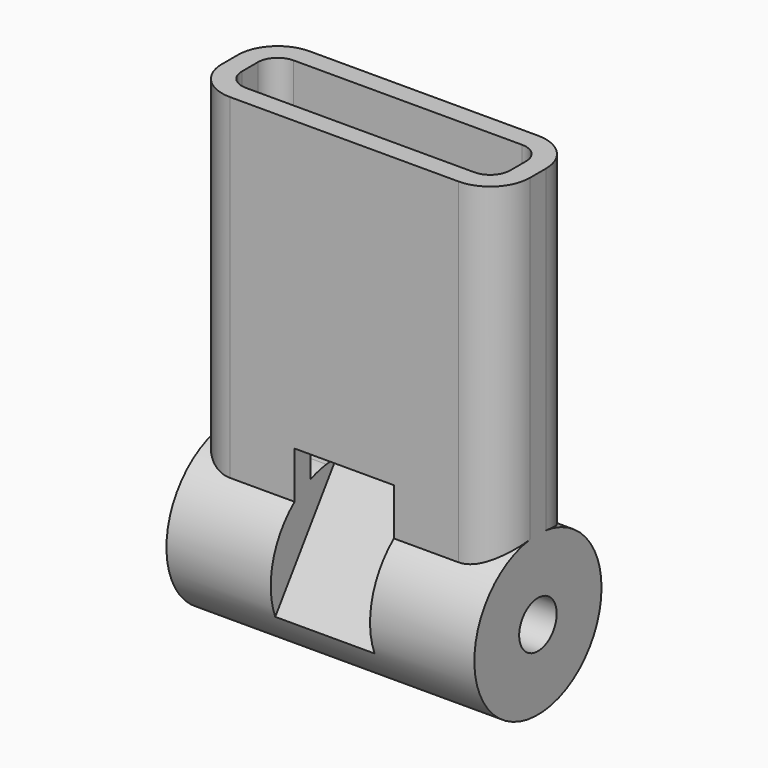
from build123d import *

# Parameters (mm, degrees)
F1_DEPTH = 20
F3_DEPTH = 15.5
F5_W     = 5
F5_H     = 3
F6_DEPTH = 4.5
F7_R     = 1.1815986622
F8_DEPTH = 25


with BuildPart() as f1:
    # F0 (on Top) → F1 (new body)
    with BuildSketch(Plane.XY):
        with BuildLine():
            Line((5.75, 2.5), (-5.75, 2.5))
            ThreePointArc((-5.75, 2.5), (-7.1642135624, 1.9142135624), (-7.75, 0.5))
            Line((-7.75, 0.5), (-7.75, -0.5))
            ThreePointArc((-7.75, -0.5), (-7.1642135624, -1.9142135624), (-5.75, -2.5))
            Line((-5.75, -2.5), (5.75, -2.5))
            ThreePointArc((5.75, -2.5), (7.1642135624, -1.9142135624), (7.75, -0.5))
            Line((7.75, -0.5), (7.75, 0.5))
            ThreePointArc((7.75, 0.5), (7.1642135624, 1.9142135624), (5.75, 2.5))
        make_face()
        with BuildLine():
            ThreePointArc((-6.75, 0.5), (-6.4571067812, 1.2071067812), (-5.75, 1.5))
            Line((-5.75, 1.5), (5.75, 1.5))
            ThreePointArc((5.75, 1.5), (6.4571067812, 1.2071067812), (6.75, 0.5))
            Line((6.75, 0.5), (6.75, -0.5))
            ThreePointArc((6.75, -0.5), (6.4571067812, -1.2071067812), (5.75, -1.5))
            Line((5.75, -1.5), (-5.75, -1.5))
            ThreePointArc((-5.75, -1.5), (-6.4571067812, -1.2071067812), (-6.75, -0.5))
            Line((-6.75, -0.5), (-6.75, 0.5))
        make_face(mode=Mode.SUBTRACT)
    extrude(amount=F1_DEPTH)

    # F2 (on face) → F3 (join)
    with BuildSketch(Plane.YZ.offset(7.75)):
        with BuildLine():
            ThreePointArc((-0.5, 3.9686269666), (-2.6457513111, -3), (4, 0))
            ThreePointArc((4, 0), (3, 2.6457513111), (0.5, 3.9686269666))
            Line((0.5, 3.9686269666), (0.5, 0))
            Line((0.5, 0), (-0.5, 0))
            Line((-0.5, 0), (-0.5, 3.9686269666))
        make_face()
        with BuildLine():
            Line((0.5, 0), (0.5, 3.9686269666))
            ThreePointArc((0.5, 3.9686269666), (0, 4), (-0.5, 3.9686269666))
            Line((-0.5, 3.9686269666), (-0.5, 0))
            Line((-0.5, 0), (0.5, 0))
        make_face()
    extrude(amount=-F3_DEPTH)

    # F5 (on face) → F6 (cut, symmetric)
    with BuildSketch(Plane(origin=(0, 0.6446198131, 0.9206125012), x_dir=(1, 0, 0), z_dir=(0, 0.5735764364, 0.8191520443))):
        with Locations((0, -3.6926725879)):
            Rectangle(F5_W, F5_H)
    extrude(amount=F6_DEPTH, both=True, mode=Mode.SUBTRACT)

    # F7 (on face) → F8 (cut)
    with BuildSketch(Plane(origin=(-7.75, 0, 0), x_dir=(0, -1, 0), z_dir=(-1, 0, 0))):
        Circle(F7_R)
    extrude(amount=-F8_DEPTH, mode=Mode.SUBTRACT)


solid = f1.part
